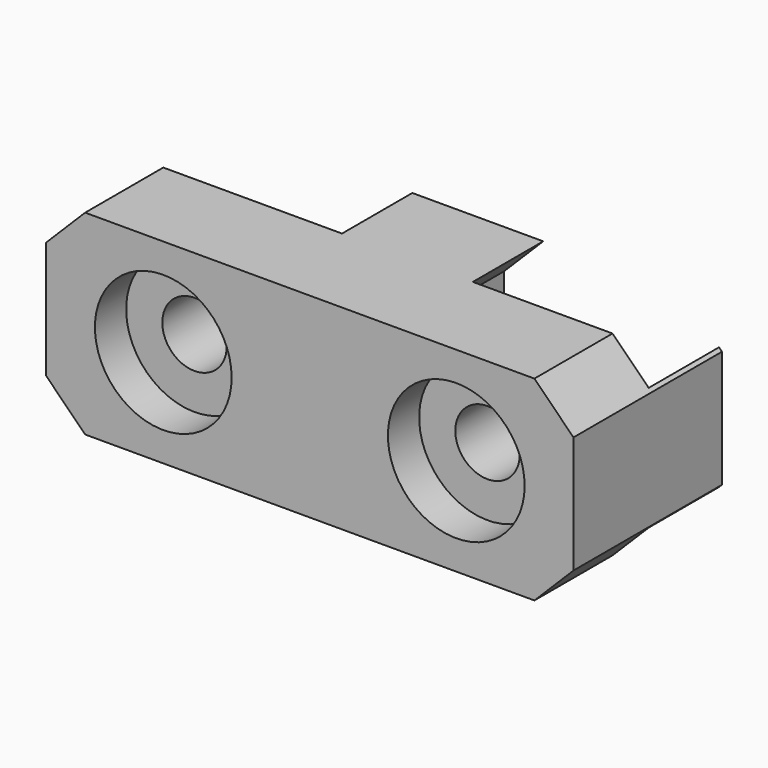
from build123d import *

# Parameters (mm, degrees)
CYLINDER030_R            = 1.65
CYLINDER030_DEPTH        = 13
CYLINDER029_R            = 1.65
CYLINDER029_DEPTH        = 13
CYLINDER032_R            = 3.5
CYLINDER032_DEPTH        = 2
CYLINDER031_R            = 3.5
CYLINDER031_DEPTH        = 2
BOX052_W                 = 11
BOX052_H                 = 5
BOX052_DEPTH             = 10
CHAMFER003001005038_SIZE = 2
BOX051_W                 = 11.15
BOX051_H                 = 5
BOX051_DEPTH             = 10.15
CHAMFER003001005037_SIZE = 2
BOX050_W                 = 27
BOX050_H                 = 9.5
BOX050_DEPTH             = 10
CHAMFER003001005036_SIZE = 2


with BuildPart() as cylinder030:
    # Cylinder030 → Cylinder030 (new body)
    with BuildSketch(Plane(origin=(57, 10, 112), x_dir=(1, 0, 0), z_dir=(0, -1, 0))):
        Circle(CYLINDER030_R)
    extrude(amount=CYLINDER030_DEPTH)


with BuildPart() as fusion003023010:
    # Cylinder029 → Cylinder029 (new body)
    with BuildSketch(Plane(origin=(42, 10, 112), x_dir=(1, 0, 0), z_dir=(0, -1, 0))):
        Circle(CYLINDER029_R)
    extrude(amount=CYLINDER029_DEPTH)

    # Fusion003023010: union Cylinder030
    add(cylinder030.part)


with BuildPart() as cylinder032:
    # Cylinder032 → Cylinder032 (new body)
    with BuildSketch(Plane(origin=(42, 10, 112), x_dir=(1, 0, 0), z_dir=(0, -1, 0))):
        Circle(CYLINDER032_R)
    extrude(amount=CYLINDER032_DEPTH)


with BuildPart() as fusion003023011:
    # Cylinder031 → Cylinder031 (new body)
    with BuildSketch(Plane(origin=(57, 10, 112), x_dir=(1, 0, 0), z_dir=(0, -1, 0))):
        Circle(CYLINDER031_R)
    extrude(amount=CYLINDER031_DEPTH)

    # Fusion003023009: union Cylinder032
    add(cylinder032.part)


with BuildPart() as fusion003023011_1:
    # Fusion003023009 placement: moved
    add(fusion003023011.part.moved(Location((0, -8, 0))))

    # Fusion003023011: union Fusion003023010
    add(fusion003023010.part)


with BuildPart() as chamfer003001005038:
    # Box052 → Box052 (new body)
    with BuildSketch(Plane(origin=(51.85, 5, 107), x_dir=(1, 0, 0), z_dir=(0, 0, 1))):
        with Locations((5.5, 2.5)):
            Rectangle(BOX052_W, BOX052_H)
    extrude(amount=BOX052_DEPTH)

    # Chamfer003001005038
    chamfer003001005038_edges = [chamfer003001005038.edges().sort_by_distance(p)[0] for p in [
        (51.85, 7.5, 117),
    ]]
    chamfer(chamfer003001005038_edges, length=CHAMFER003001005038_SIZE)


with BuildPart() as fusion003023008:
    # Box051 → Box051 (new body)
    with BuildSketch(Plane(origin=(36, 5, 106.85), x_dir=(1, 0, 0), z_dir=(0, 0, 1))):
        with Locations((5.575, 2.5)):
            Rectangle(BOX051_W, BOX051_H)
    extrude(amount=BOX051_DEPTH)

    # Chamfer003001005037
    chamfer003001005037_edges = [fusion003023008.edges().sort_by_distance(p)[0] for p in [
        (47.15, 7.5, 106.85),
    ]]
    chamfer(chamfer003001005037_edges, length=CHAMFER003001005037_SIZE)

    # Fusion003023008: union Chamfer003001005038
    add(chamfer003001005038.part)


with BuildPart() as mount_connector_top:
    # Box050 → Box050 (new body)
    with BuildSketch(Plane(origin=(36, 0, 107), x_dir=(1, 0, 0), z_dir=(0, 0, 1))):
        with Locations((13.5, 4.75)):
            Rectangle(BOX050_W, BOX050_H)
    extrude(amount=BOX050_DEPTH)

    # Chamfer003001005036
    chamfer003001005036_edges = [mount_connector_top.edges().sort_by_distance(p)[0] for p in [
        (36, 4.75, 117),
        (36, 4.75, 107),
        (63, 4.75, 117),
        (63, 4.75, 107),
    ]]
    chamfer(chamfer003001005036_edges, length=CHAMFER003001005036_SIZE)

    # Cut003023001024002: cut Fusion003023008
    add(fusion003023008.part, mode=Mode.SUBTRACT)

    # Cut003023001024003: cut Fusion003023011
    add(fusion003023011_1.part, mode=Mode.SUBTRACT)


solid = mount_connector_top.part
